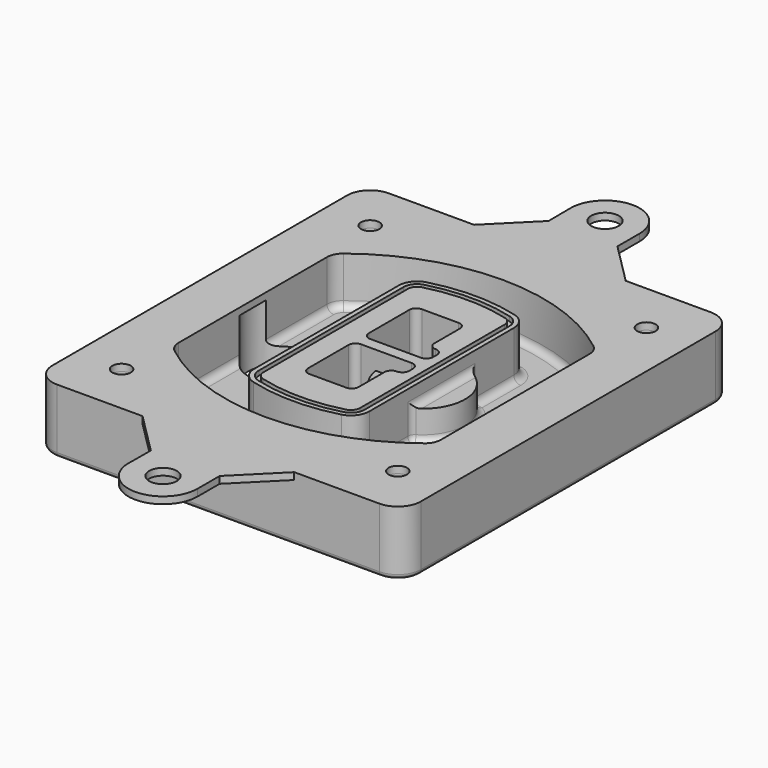
from build123d import *

# Parameters (mm, degrees)
F0_R      = 4
F1_DEPTH  = 25
F2_DEPTH  = 3
F3_DEPTH  = 18
F5_DEPTH  = 21
F6_DEPTH  = 2
F8_DEPTH  = 20
F9_DEPTH  = 16
F10_DEPTH = 25
F7_R      = 6
F7_R_2    = 4
F11_DEPTH = 6
F13_DEPTH = 9
F14_R     = 3
F15_R     = 2
F16_R     = 4
F16_R_2   = 6
F17_DEPTH = 3


with BuildPart() as f1:
    # F0 (on Top) → F1 (new body)
    with BuildSketch(Plane.XY):
        with BuildLine():
            ThreePointArc((-80, -80), (-77.0710678119, -87.0710678119), (-70, -90))
            Line((-70, -90), (70, -90))
            ThreePointArc((70, -90), (77.0710678119, -87.0710678119), (80, -80))
            Line((80, -80), (80, 80))
            ThreePointArc((80, 80), (77.0710678119, 87.0710678119), (70, 90))
            Line((70, 90), (-70, 90))
            ThreePointArc((-70, 90), (-77.0710678119, 87.0710678119), (-80, 80))
            Line((-80, 80), (-80, -80))
        make_face()
        with Locations((-60, -67.5)):
            Circle(F0_R, mode=Mode.SUBTRACT)
        with Locations((60, -67.5)):
            Circle(F0_R, mode=Mode.SUBTRACT)
        with Locations((-60, 67.5)):
            Circle(F0_R, mode=Mode.SUBTRACT)
        with BuildLine():
            ThreePointArc((-64, 40.2934422872), (-62.5820384798, 46.4328484224), (-58.6153846154, 51.3286200352))
            ThreePointArc((-58.6153846154, 51.3286200352), (0, 71.5), (58.6153846154, 51.3286200352))
            ThreePointArc((58.6153846154, 51.3286200352), (62.5820384798, 46.4328484224), (64, 40.2934422872))
            Line((64, 40.2934422872), (64, -40.2934422872))
            ThreePointArc((64, -40.2934422872), (62.5820384798, -46.4328484224), (58.6153846154, -51.3286200352))
            ThreePointArc((58.6153846154, -51.3286200352), (0, -71.5), (-58.6153846154, -51.3286200352))
            ThreePointArc((-58.6153846154, -51.3286200352), (-62.5820384798, -46.4328484224), (-64, -40.2934422872))
            Line((-64, -40.2934422872), (-64, 40.2934422872))
        make_face(mode=Mode.SUBTRACT)
        with Locations((60, 67.5)):
            Circle(F0_R, mode=Mode.SUBTRACT)
        with BuildLine():
            ThreePointArc((58.6153846154, 51.3286200352), (0, 71.5), (-58.6153846154, 51.3286200352))
            ThreePointArc((-58.6153846154, 51.3286200352), (-62.5820384798, 46.4328484224), (-64, 40.2934422872))
            Line((-64, 40.2934422872), (-64, -40.2934422872))
            ThreePointArc((-64, -40.2934422872), (-62.5820384798, -46.4328484224), (-58.6153846154, -51.3286200352))
            ThreePointArc((-58.6153846154, -51.3286200352), (0, -71.5), (58.6153846154, -51.3286200352))
            ThreePointArc((58.6153846154, -51.3286200352), (62.5820384798, -46.4328484224), (64, -40.2934422872))
            Line((64, -40.2934422872), (64, 40.2934422872))
            ThreePointArc((64, 40.2934422872), (62.5820384798, 46.4328484224), (58.6153846154, 51.3286200352))
        make_face()
        with BuildLine():
            Line((-60, -40.2934422872), (-60, 40.2934422872))
            ThreePointArc((-60, 40.2934422872), (-58.9871703427, 44.6787323838), (-56.1538461538, 48.1757121072))
            ThreePointArc((-56.1538461538, 48.1757121072), (0, 67.5), (56.1538461538, 48.1757121072))
            ThreePointArc((56.1538461538, 48.1757121072), (58.9871703427, 44.6787323838), (60, 40.2934422872))
            Line((60, 40.2934422872), (60, -40.2934422872))
            ThreePointArc((60, -40.2934422872), (58.9871703427, -44.6787323838), (56.1538461538, -48.1757121072))
            ThreePointArc((56.1538461538, -48.1757121072), (0, -67.5), (-56.1538461538, -48.1757121072))
            ThreePointArc((-56.1538461538, -48.1757121072), (-58.9871703427, -44.6787323838), (-60, -40.2934422872))
        make_face(mode=Mode.SUBTRACT)
        with BuildLine():
            ThreePointArc((-56.1538461538, 48.1757121072), (-58.9871703427, 44.6787323838), (-60, 40.2934422872))
            Line((-60, 40.2934422872), (-60, -40.2934422872))
            ThreePointArc((-60, -40.2934422872), (-58.9871703427, -44.6787323838), (-56.1538461538, -48.1757121072))
            ThreePointArc((-56.1538461538, -48.1757121072), (0, -67.5), (56.1538461538, -48.1757121072))
            ThreePointArc((56.1538461538, -48.1757121072), (58.9871703427, -44.6787323838), (60, -40.2934422872))
            Line((60, -40.2934422872), (60, 40.2934422872))
            ThreePointArc((60, 40.2934422872), (58.9871703427, 44.6787323838), (56.1538461538, 48.1757121072))
            ThreePointArc((56.1538461538, 48.1757121072), (0, 67.5), (-56.1538461538, 48.1757121072))
        make_face()
        with BuildLine():
            ThreePointArc((54.3076923077, 45.8110311612), (56.2910192399, 43.3631453548), (57, 40.2934422872))
            Line((57, 40.2934422872), (57, -40.2934422872))
            ThreePointArc((57, -40.2934422872), (56.2910192399, -43.3631453548), (54.3076923077, -45.8110311612))
            ThreePointArc((54.3076923077, -45.8110311612), (0, -64.5), (-54.3076923077, -45.8110311612))
            ThreePointArc((-54.3076923077, -45.8110311612), (-56.2910192399, -43.3631453548), (-57, -40.2934422872))
            Line((-57, -40.2934422872), (-57, 40.2934422872))
            ThreePointArc((-57, 40.2934422872), (-56.2910192399, 43.3631453548), (-54.3076923077, 45.8110311612))
            ThreePointArc((-54.3076923077, 45.8110311612), (0, 64.5), (54.3076923077, 45.8110311612))
        make_face(mode=Mode.SUBTRACT)
        with BuildLine():
            Line((57, -40.2934422872), (57, 40.2934422872))
            ThreePointArc((57, 40.2934422872), (56.2910192399, 43.3631453548), (54.3076923077, 45.8110311612))
            ThreePointArc((54.3076923077, 45.8110311612), (0, 64.5), (-54.3076923077, 45.8110311612))
            ThreePointArc((-54.3076923077, 45.8110311612), (-56.2910192399, 43.3631453548), (-57, 40.2934422872))
            Line((-57, 40.2934422872), (-57, -40.2934422872))
            ThreePointArc((-57, -40.2934422872), (-56.2910192399, -43.3631453548), (-54.3076923077, -45.8110311612))
            ThreePointArc((-54.3076923077, -45.8110311612), (0, -64.5), (54.3076923077, -45.8110311612))
            ThreePointArc((54.3076923077, -45.8110311612), (56.2910192399, -43.3631453548), (57, -40.2934422872))
        make_face()
    extrude(amount=-F1_DEPTH)

    # F0 (on Top) → F2 (join)
    with BuildSketch(Plane.XY):
        with BuildLine():
            ThreePointArc((-56.1538461538, 48.1757121072), (-58.9871703427, 44.6787323838), (-60, 40.2934422872))
            Line((-60, 40.2934422872), (-60, -40.2934422872))
            ThreePointArc((-60, -40.2934422872), (-58.9871703427, -44.6787323838), (-56.1538461538, -48.1757121072))
            ThreePointArc((-56.1538461538, -48.1757121072), (0, -67.5), (56.1538461538, -48.1757121072))
            ThreePointArc((56.1538461538, -48.1757121072), (58.9871703427, -44.6787323838), (60, -40.2934422872))
            Line((60, -40.2934422872), (60, 40.2934422872))
            ThreePointArc((60, 40.2934422872), (58.9871703427, 44.6787323838), (56.1538461538, 48.1757121072))
            ThreePointArc((56.1538461538, 48.1757121072), (0, 67.5), (-56.1538461538, 48.1757121072))
        make_face()
        with BuildLine():
            ThreePointArc((54.3076923077, 45.8110311612), (56.2910192399, 43.3631453548), (57, 40.2934422872))
            Line((57, 40.2934422872), (57, -40.2934422872))
            ThreePointArc((57, -40.2934422872), (56.2910192399, -43.3631453548), (54.3076923077, -45.8110311612))
            ThreePointArc((54.3076923077, -45.8110311612), (0, -64.5), (-54.3076923077, -45.8110311612))
            ThreePointArc((-54.3076923077, -45.8110311612), (-56.2910192399, -43.3631453548), (-57, -40.2934422872))
            Line((-57, -40.2934422872), (-57, 40.2934422872))
            ThreePointArc((-57, 40.2934422872), (-56.2910192399, 43.3631453548), (-54.3076923077, 45.8110311612))
            ThreePointArc((-54.3076923077, 45.8110311612), (0, 64.5), (54.3076923077, 45.8110311612))
        make_face(mode=Mode.SUBTRACT)
    extrude(amount=F2_DEPTH)

    # F0 (on Top) → F3 (cut)
    with BuildSketch(Plane.XY):
        with BuildLine():
            Line((57, -40.2934422872), (57, 40.2934422872))
            ThreePointArc((57, 40.2934422872), (56.2910192399, 43.3631453548), (54.3076923077, 45.8110311612))
            ThreePointArc((54.3076923077, 45.8110311612), (0, 64.5), (-54.3076923077, 45.8110311612))
            ThreePointArc((-54.3076923077, 45.8110311612), (-56.2910192399, 43.3631453548), (-57, 40.2934422872))
            Line((-57, 40.2934422872), (-57, -40.2934422872))
            ThreePointArc((-57, -40.2934422872), (-56.2910192399, -43.3631453548), (-54.3076923077, -45.8110311612))
            ThreePointArc((-54.3076923077, -45.8110311612), (0, -64.5), (54.3076923077, -45.8110311612))
            ThreePointArc((54.3076923077, -45.8110311612), (56.2910192399, -43.3631453548), (57, -40.2934422872))
        make_face()
    extrude(amount=-F3_DEPTH, mode=Mode.SUBTRACT)

    # F4 (on face) → F5 (join, through all)
    with BuildSketch(Plane.XY.offset(3)):
        with BuildLine():
            ThreePointArc((-25, -39.2465276821), (-23.3511545998, -44.1109737193), (-19.0842911877, -46.9702398883))
            ThreePointArc((-19.0842911877, -46.9702398883), (0, -49.5), (19.0842911877, -46.9702398883))
            ThreePointArc((19.0842911877, -46.9702398883), (23.3511545998, -44.1109737193), (25, -39.2465276821))
            Line((25, -39.2465276821), (25, 39.2465276821))
            ThreePointArc((25, 39.2465276821), (23.3511545998, 44.1109737193), (19.0842911877, 46.9702398883))
            ThreePointArc((19.0842911877, 46.9702398883), (0, 49.5), (-19.0842911877, 46.9702398883))
            ThreePointArc((-19.0842911877, 46.9702398883), (-23.3511545998, 44.1109737193), (-25, 39.2465276821))
            Line((-25, 39.2465276821), (-25, -39.2465276821))
        make_face()
        with BuildLine():
            ThreePointArc((18.5632183908, 45.0393118368), (21.7633659499, 42.89486221), (23, 39.2465276821))
            Line((23, 39.2465276821), (23, -39.2465276821))
            ThreePointArc((23, -39.2465276821), (21.7633659499, -42.89486221), (18.5632183908, -45.0393118368))
            ThreePointArc((18.5632183908, -45.0393118368), (0, -47.5), (-18.5632183908, -45.0393118368))
            ThreePointArc((-18.5632183908, -45.0393118368), (-21.7633659499, -42.89486221), (-23, -39.2465276821))
            Line((-23, -39.2465276821), (-23, 39.2465276821))
            ThreePointArc((-23, 39.2465276821), (-21.7633659499, 42.89486221), (-18.5632183908, 45.0393118368))
            ThreePointArc((-18.5632183908, 45.0393118368), (0, 47.5), (18.5632183908, 45.0393118368))
        make_face(mode=Mode.SUBTRACT)
        with BuildLine():
            Line((23, -39.2465276821), (23, 39.2465276821))
            ThreePointArc((23, 39.2465276821), (21.7633659499, 42.89486221), (18.5632183908, 45.0393118368))
            ThreePointArc((18.5632183908, 45.0393118368), (0, 47.5), (-18.5632183908, 45.0393118368))
            ThreePointArc((-18.5632183908, 45.0393118368), (-21.7633659499, 42.89486221), (-23, 39.2465276821))
            Line((-23, 39.2465276821), (-23, -39.2465276821))
            ThreePointArc((-23, -39.2465276821), (-21.7633659499, -42.89486221), (-18.5632183908, -45.0393118368))
            ThreePointArc((-18.5632183908, -45.0393118368), (0, -47.5), (18.5632183908, -45.0393118368))
            ThreePointArc((18.5632183908, -45.0393118368), (21.7633659499, -42.89486221), (23, -39.2465276821))
        make_face()
        with BuildLine():
            ThreePointArc((18.0421455939, 43.1083837852), (20.1755772999, 41.6787507007), (21, 39.2465276821))
            Line((21, 39.2465276821), (21, -39.2465276821))
            ThreePointArc((21, -39.2465276821), (20.1755772999, -41.6787507007), (18.0421455939, -43.1083837852))
            ThreePointArc((18.0421455939, -43.1083837852), (0, -45.5), (-18.0421455939, -43.1083837852))
            ThreePointArc((-18.0421455939, -43.1083837852), (-20.1755772999, -41.6787507007), (-21, -39.2465276821))
            Line((-21, -39.2465276821), (-21, 39.2465276821))
            ThreePointArc((-21, 39.2465276821), (-20.1755772999, 41.6787507007), (-18.0421455939, 43.1083837852))
            ThreePointArc((-18.0421455939, 43.1083837852), (0, 45.5), (18.0421455939, 43.1083837852))
        make_face(mode=Mode.SUBTRACT)
        with BuildLine():
            Line((21, -39.2465276821), (21, 39.2465276821))
            ThreePointArc((21, 39.2465276821), (20.1755772999, 41.6787507007), (18.0421455939, 43.1083837852))
            ThreePointArc((18.0421455939, 43.1083837852), (0, 45.5), (-18.0421455939, 43.1083837852))
            ThreePointArc((-18.0421455939, 43.1083837852), (-20.1755772999, 41.6787507007), (-21, 39.2465276821))
            Line((-21, 39.2465276821), (-21, -39.2465276821))
            ThreePointArc((-21, -39.2465276821), (-20.1755772999, -41.6787507007), (-18.0421455939, -43.1083837852))
            ThreePointArc((-18.0421455939, -43.1083837852), (0, -45.5), (18.0421455939, -43.1083837852))
            ThreePointArc((18.0421455939, -43.1083837852), (20.1755772999, -41.6787507007), (21, -39.2465276821))
        make_face()
        with BuildLine():
            Line((-8, -2.5), (14, -2.5))
            ThreePointArc((14, -2.5), (16.1213203436, -3.3786796564), (17, -5.5))
            Line((17, -5.5), (17, -7.5))
            ThreePointArc((17, -7.5), (16.1213203436, -9.6213203436), (14, -10.5))
            ThreePointArc((14, -10.5), (11.8786796564, -11.3786796564), (11, -13.5))
            Line((11, -13.5), (11, -27.5))
            ThreePointArc((11, -27.5), (10.1213203436, -29.6213203436), (8, -30.5))
            Line((8, -30.5), (-8, -30.5))
            ThreePointArc((-8, -30.5), (-10.1213203436, -29.6213203436), (-11, -27.5))
            Line((-11, -27.5), (-11, -5.5))
            ThreePointArc((-11, -5.5), (-10.1213203436, -3.3786796564), (-8, -2.5))
        make_face(mode=Mode.SUBTRACT)
        with BuildLine():
            ThreePointArc((-8, 2.5), (-10.1213203436, 3.3786796564), (-11, 5.5))
            Line((-11, 5.5), (-11, 27.5))
            ThreePointArc((-11, 27.5), (-10.1213203436, 29.6213203436), (-8, 30.5))
            Line((-8, 30.5), (8, 30.5))
            ThreePointArc((8, 30.5), (10.1213203436, 29.6213203436), (11, 27.5))
            Line((11, 27.5), (11, 13.5))
            ThreePointArc((11, 13.5), (11.8786796564, 11.3786796564), (14, 10.5))
            ThreePointArc((14, 10.5), (16.1213203436, 9.6213203436), (17, 7.5))
            Line((17, 7.5), (17, 5.5))
            ThreePointArc((17, 5.5), (16.1213203436, 3.3786796564), (14, 2.5))
            Line((14, 2.5), (-8, 2.5))
        make_face(mode=Mode.SUBTRACT)
    extrude(amount=-F5_DEPTH)

    # F4 (on face) → F6 (cut)
    with BuildSketch(Plane.XY.offset(3)):
        with BuildLine():
            Line((23, -39.2465276821), (23, 39.2465276821))
            ThreePointArc((23, 39.2465276821), (21.7633659499, 42.89486221), (18.5632183908, 45.0393118368))
            ThreePointArc((18.5632183908, 45.0393118368), (0, 47.5), (-18.5632183908, 45.0393118368))
            ThreePointArc((-18.5632183908, 45.0393118368), (-21.7633659499, 42.89486221), (-23, 39.2465276821))
            Line((-23, 39.2465276821), (-23, -39.2465276821))
            ThreePointArc((-23, -39.2465276821), (-21.7633659499, -42.89486221), (-18.5632183908, -45.0393118368))
            ThreePointArc((-18.5632183908, -45.0393118368), (0, -47.5), (18.5632183908, -45.0393118368))
            ThreePointArc((18.5632183908, -45.0393118368), (21.7633659499, -42.89486221), (23, -39.2465276821))
        make_face()
        with BuildLine():
            ThreePointArc((18.0421455939, 43.1083837852), (20.1755772999, 41.6787507007), (21, 39.2465276821))
            Line((21, 39.2465276821), (21, -39.2465276821))
            ThreePointArc((21, -39.2465276821), (20.1755772999, -41.6787507007), (18.0421455939, -43.1083837852))
            ThreePointArc((18.0421455939, -43.1083837852), (0, -45.5), (-18.0421455939, -43.1083837852))
            ThreePointArc((-18.0421455939, -43.1083837852), (-20.1755772999, -41.6787507007), (-21, -39.2465276821))
            Line((-21, -39.2465276821), (-21, 39.2465276821))
            ThreePointArc((-21, 39.2465276821), (-20.1755772999, 41.6787507007), (-18.0421455939, 43.1083837852))
            ThreePointArc((-18.0421455939, 43.1083837852), (0, 45.5), (18.0421455939, 43.1083837852))
        make_face(mode=Mode.SUBTRACT)
    extrude(amount=-F6_DEPTH, mode=Mode.SUBTRACT)

    # F7 (on face) → F8 (join)
    with BuildSketch(Plane(origin=(0, 0, -25), x_dir=(1, 0, 0), z_dir=(0, 0, -1))):
        with BuildLine():
            ThreePointArc((3.28842436, 0), (16.7567035675, 13.4682792075), (30.224982775, 0))
            Line((30.224982775, 0), (35.224982775, 0))
            ThreePointArc((35.224982775, 0), (16.7567035675, 18.4682792075), (-1.71157564, 0))
            Line((-1.71157564, 0), (3.28842436, 0))
        make_face()
        with BuildLine():
            Line((3.28842436, 0), (30.224982775, 0))
            ThreePointArc((30.224982775, 0), (16.7567035675, 13.4682792075), (3.28842436, 0))
        make_face()
        with BuildLine():
            ThreePointArc((3.28842436, 0), (16.7567035675, -13.4682792075), (30.224982775, 0))
            Line((30.224982775, 0), (3.28842436, 0))
        make_face()
        with BuildLine():
            Line((35.224982775, 0), (30.224982775, 0))
            ThreePointArc((30.224982775, 0), (16.7567035675, -13.4682792075), (3.28842436, 0))
            Line((3.28842436, 0), (-1.71157564, 0))
            ThreePointArc((-1.71157564, 0), (16.7567035675, -18.4682792075), (35.224982775, 0))
        make_face()
    extrude(amount=-F8_DEPTH)

    # F7 (on face) → F9 (cut)
    with BuildSketch(Plane(origin=(0, 0, -25), x_dir=(1, 0, 0), z_dir=(0, 0, -1))):
        with BuildLine():
            Line((3.28842436, 0), (30.224982775, 0))
            ThreePointArc((30.224982775, 0), (16.7567035675, 13.4682792075), (3.28842436, 0))
        make_face()
        with BuildLine():
            ThreePointArc((3.28842436, 0), (16.7567035675, -13.4682792075), (30.224982775, 0))
            Line((30.224982775, 0), (3.28842436, 0))
        make_face()
    extrude(amount=-F9_DEPTH, mode=Mode.SUBTRACT)

    # F7 (on face) → F10 (cut)
    with BuildSketch(Plane(origin=(0, 0, -25), x_dir=(1, 0, 0), z_dir=(0, 0, -1))):
        with BuildLine():
            Line((-59.0318229325, 0), (-32.0952645175, 0))
            ThreePointArc((-32.0952645175, 0), (-45.563543725, 13.4682792075), (-59.0318229325, 0))
        make_face()
        with BuildLine():
            ThreePointArc((-59.0318229325, 0), (-45.563543725, -13.4682792075), (-32.0952645175, 0))
            Line((-32.0952645175, 0), (-59.0318229325, 0))
        make_face()
    extrude(amount=-F10_DEPTH, mode=Mode.SUBTRACT)

    # F7 (on face) → F11 (cut)
    with BuildSketch(Plane(origin=(0, 0, -25), x_dir=(1, 0, 0), z_dir=(0, 0, -1))):
        with Locations((60, -67.5)):
            Circle(F7_R)
        with Locations((60, -67.5)):
            Circle(F7_R_2, mode=Mode.SUBTRACT)
        with Locations((60, -67.5)):
            Circle(F7_R)
        with Locations((60, -67.5)):
            Circle(F7_R_2, mode=Mode.SUBTRACT)
        with Locations((-60, -67.5)):
            Circle(F7_R)
        with Locations((-60, -67.5)):
            Circle(F7_R_2, mode=Mode.SUBTRACT)
        with Locations((-60, -67.5)):
            Circle(F7_R)
        with Locations((-60, -67.5)):
            Circle(F7_R_2, mode=Mode.SUBTRACT)
        with Locations((-60, 67.5)):
            Circle(F7_R)
        with Locations((-60, 67.5)):
            Circle(F7_R_2, mode=Mode.SUBTRACT)
        with Locations((-60, 67.5)):
            Circle(F7_R)
        with Locations((-60, 67.5)):
            Circle(F7_R_2, mode=Mode.SUBTRACT)
        with Locations((60, 67.5)):
            Circle(F7_R)
        with Locations((60, 67.5)):
            Circle(F7_R_2, mode=Mode.SUBTRACT)
        with Locations((60, 67.5)):
            Circle(F7_R)
        with Locations((60, 67.5)):
            Circle(F7_R_2, mode=Mode.SUBTRACT)
    extrude(amount=-F11_DEPTH, mode=Mode.SUBTRACT)

    # F12 (on face) → F13 (cut, through all)
    with BuildSketch(Plane(origin=(0, 0, -9), x_dir=(1, 0, 0), z_dir=(0, 0, -1))):
        with BuildLine():
            Line((11, 13.5), (11, 17.5481537753))
            ThreePointArc((11, 17.5481537753), (2.5696536419, 11.8239143813), (-1.5415842455, 2.5))
            Line((-1.5415842455, 2.5), (3.5224848595, 2.5))
            ThreePointArc((3.5224848595, 2.5), (6.1857188154, 8.3455872281), (11.2536447004, 12.2927168648))
            ThreePointArc((11.2536447004, 12.2927168648), (11.0640958889, 12.8831798879), (11, 13.5))
        make_face()
        with BuildLine():
            ThreePointArc((11.2536447004, -12.2927168648), (6.1857188154, -8.3455872281), (3.5224848595, -2.5))
            Line((3.5224848595, -2.5), (-1.5415842455, -2.5))
            ThreePointArc((-1.5415842455, -2.5), (2.5696536419, -11.8239143813), (11, -17.5481537753))
            Line((11, -17.5481537753), (11, -13.5))
            ThreePointArc((11, -13.5), (11.0640958889, -12.8831798879), (11.2536447004, -12.2927168648))
        make_face()
        with BuildLine():
            ThreePointArc((11.2536447004, 12.2927168648), (6.1857188154, 8.3455872281), (3.5224848595, 2.5))
            Line((3.5224848595, 2.5), (14, 2.5))
            ThreePointArc((14, 2.5), (16.1213203436, 3.3786796564), (17, 5.5))
            Line((17, 5.5), (17, 7.5))
            ThreePointArc((17, 7.5), (16.1213203436, 9.6213203436), (14, 10.5))
            ThreePointArc((14, 10.5), (12.3601599782, 10.9878446101), (11.2536447004, 12.2927168648))
        make_face()
        with BuildLine():
            Line((14, -2.5), (3.5224848595, -2.5))
            ThreePointArc((3.5224848595, -2.5), (6.1857188154, -8.3455872281), (11.2536447004, -12.2927168648))
            ThreePointArc((11.2536447004, -12.2927168648), (12.3601599782, -10.9878446101), (14, -10.5))
            ThreePointArc((14, -10.5), (16.1213203436, -9.6213203436), (17, -7.5))
            Line((17, -7.5), (17, -5.5))
            ThreePointArc((17, -5.5), (16.1213203436, -3.3786796564), (14, -2.5))
        make_face()
    extrude(amount=F13_DEPTH, mode=Mode.SUBTRACT)

    # F14
    f14_edges = [f1.edges().sort_by_distance(p)[0] for p in [
        (-57, -23.703476, -18),
        (-57, 23.703476, -18),
        (25, 0, -5),
        (25, 16.526506, -11.5),
        (25, -16.526506, -11.5),
        (25, -27.886517, -18),
        (35.224983, 0, -18),
    ]]
    fillet(f14_edges, radius=F14_R)

    # F15
    f15_edges = [f1.edges().sort_by_distance(p)[0] for p in [
        (0, -90, -25),
    ]]
    fillet(f15_edges, radius=F15_R)

    # F16 (on face) → F17 (join)
    with BuildSketch(Plane.XY):
        with BuildLine():
            Line((70, 90), (33, 90))
            Line((33, 90), (-32.8842567578, 90))
            Line((-32.8842567578, 90), (-70, 90))
            ThreePointArc((-70, 90), (-77.0710678119, 87.0710678119), (-80, 80))
            Line((-80, 80), (-80, -80))
            ThreePointArc((-80, -80), (-77.0710678119, -87.0710678119), (-70, -90))
            Line((-70, -90), (-32.8842567578, -90))
            Line((-32.8842567578, -90), (33, -90))
            Line((33, -90), (70, -90))
            ThreePointArc((70, -90), (77.0710678119, -87.0710678119), (80, -80))
            Line((80, -80), (80, 80))
            ThreePointArc((80, 80), (77.0710678119, 87.0710678119), (70, 90))
        make_face()
        with Locations((-60, -67.5)):
            Circle(F16_R, mode=Mode.SUBTRACT)
        with Locations((60, -67.5)):
            Circle(F16_R, mode=Mode.SUBTRACT)
        with Locations((-60, 67.5)):
            Circle(F16_R, mode=Mode.SUBTRACT)
        with BuildLine():
            ThreePointArc((-60, 40.2934422872), (-58.9871703427, 44.6787323838), (-56.1538461538, 48.1757121072))
            ThreePointArc((-56.1538461538, 48.1757121072), (0, 67.5), (56.1538461538, 48.1757121072))
            ThreePointArc((56.1538461538, 48.1757121072), (58.9871703427, 44.6787323838), (60, 40.2934422872))
            Line((60, 40.2934422872), (60, -40.2934422872))
            ThreePointArc((60, -40.2934422872), (58.9871703427, -44.6787323838), (56.1538461538, -48.1757121072))
            ThreePointArc((56.1538461538, -48.1757121072), (0, -67.5), (-56.1538461538, -48.1757121072))
            ThreePointArc((-56.1538461538, -48.1757121072), (-58.9871703427, -44.6787323838), (-60, -40.2934422872))
            Line((-60, -40.2934422872), (-60, 40.2934422872))
        make_face(mode=Mode.SUBTRACT)
        with Locations((60, 67.5)):
            Circle(F16_R, mode=Mode.SUBTRACT)
        with BuildLine():
            Line((15, 108), (15, 120))
            ThreePointArc((15, 120), (0.2313836293, 134.998215281), (-14.9928615488, 120.462712198))
            Line((-14.9928615488, 120.462712198), (-14.8842567578, 108))
            Line((-14.8842567578, 108), (-32.8842567578, 90))
            Line((-32.8842567578, 90), (33, 90))
            Line((33, 90), (15, 108))
        make_face()
        with Locations((0, 120)):
            Circle(F16_R_2, mode=Mode.SUBTRACT)
        with BuildLine():
            Line((15, -108), (33, -90))
            Line((33, -90), (-32.8842567578, -90))
            Line((-32.8842567578, -90), (-14.8842567578, -108))
            Line((-14.8842567578, -108), (-14.9928615488, -120.462712198))
            ThreePointArc((-14.9928615488, -120.462712198), (0.2313836293, -134.998215281), (15, -120))
            Line((15, -120), (15, -108))
        make_face()
        with Locations((0, -120)):
            Circle(F16_R_2, mode=Mode.SUBTRACT)
    extrude(amount=F17_DEPTH)


solid = f1.part
